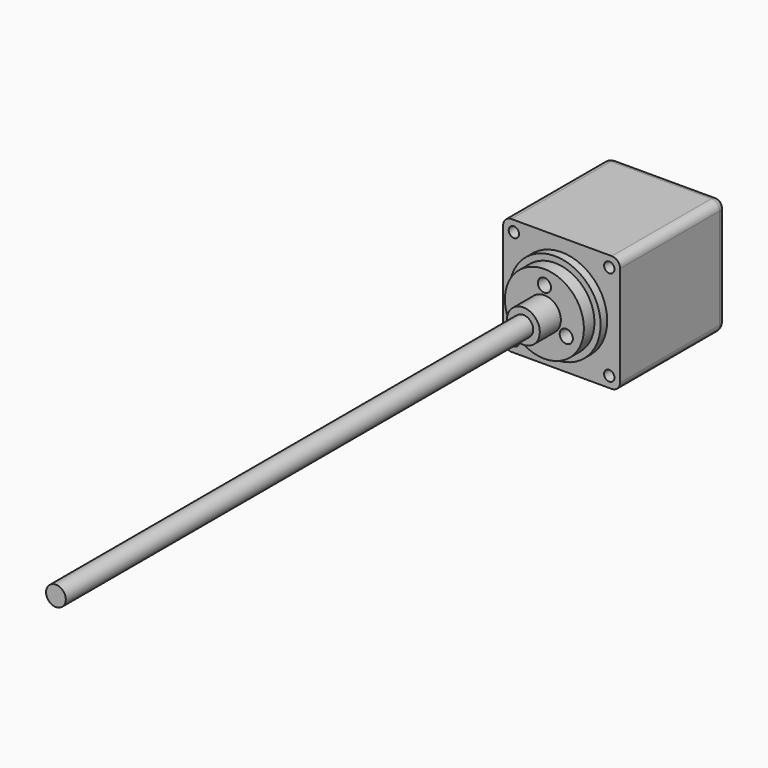
from build123d import *

# Parameters (mm, degrees)
F0_W     = 28.2
F0_H     = 28.2
F0_R     = 1.25
F0_R_2   = 11
F0_R_3   = 2.38
F1_DEPTH = 32
F2_DEPTH = 152.4
F3_DEPTH = 2
F4_DEPTH = 3
F5_R     = 2
F6_R     = 3.97
F6_R_2   = 2.38
F7_DEPTH = 9.53
F6_R_3   = 9.525
F6_R_4   = 1.59
F8_DEPTH = 3.18


with BuildPart() as f1:
    # F0 (on Front) → F1 (new body)
    with BuildSketch(Plane.XZ):
        Rectangle(F0_W, F0_H)
        with Locations((-11.5, -11.5)):
            Circle(F0_R, mode=Mode.SUBTRACT)
        with Locations((11.5, -11.5)):
            Circle(F0_R, mode=Mode.SUBTRACT)
        with Locations((-11.5, 11.5)):
            Circle(F0_R, mode=Mode.SUBTRACT)
        Circle(F0_R_2, mode=Mode.SUBTRACT)
        with Locations((11.5, 11.5)):
            Circle(F0_R, mode=Mode.SUBTRACT)
        with Locations((11.5, 11.5)):
            Circle(F0_R)
        with Locations((11.5, -11.5)):
            Circle(F0_R)
        with Locations((-11.5, -11.5)):
            Circle(F0_R)
        with Locations((-11.5, 11.5)):
            Circle(F0_R)
        Circle(F0_R_2)
        Circle(F0_R_3, mode=Mode.SUBTRACT)
        Circle(F0_R_3)
    extrude(amount=-F1_DEPTH)

    # F0 (on Front) → F3 (join)
    with BuildSketch(Plane.XZ):
        Circle(F0_R_2)
        Circle(F0_R_3, mode=Mode.SUBTRACT)
    extrude(amount=F3_DEPTH)

    # F0 (on Front) → F4 (cut)
    with BuildSketch(Plane.XZ):
        with Locations((-11.5, 11.5)):
            Circle(F0_R)
        with Locations((11.5, 11.5)):
            Circle(F0_R)
        with Locations((11.5, -11.5)):
            Circle(F0_R)
        with Locations((-11.5, -11.5)):
            Circle(F0_R)
    extrude(amount=-F4_DEPTH, mode=Mode.SUBTRACT)

    # F5
    f5_edges = [f1.edges().sort_by_distance(p)[0] for p in [
        (-14.1, 16, 14.1),
        (0, 32, 14.1),
        (14.1, 16, 14.1),
        (14.1, 32, 0),
        (14.1, 16, -14.1),
        (0, 32, -14.1),
        (-14.1, 16, -14.1),
        (-14.1, 32, 0),
    ]]
    fillet(f5_edges, radius=F5_R)


with BuildPart() as f2:
    # F0 (on Front) → F2 (new body)
    with BuildSketch(Plane.XZ):
        Circle(F0_R_3)
    extrude(amount=F2_DEPTH)


with BuildPart() as f7:
    # F6 (on face) → F7 (new body)
    with BuildSketch(Plane.XZ.offset(2)):
        Circle(F6_R)
        Circle(F6_R_2, mode=Mode.SUBTRACT)
    extrude(amount=F7_DEPTH)

    # F6 (on face) → F8 (join)
    with BuildSketch(Plane.XZ.offset(2)):
        Circle(F6_R_3)
        with Locations((-5.274094709, -3.045)):
            Circle(F6_R_4, mode=Mode.SUBTRACT)
        with Locations((5.274094709, -3.045)):
            Circle(F6_R_4, mode=Mode.SUBTRACT)
        Circle(F6_R, mode=Mode.SUBTRACT)
        with Locations((0, 6.09)):
            Circle(F6_R_4, mode=Mode.SUBTRACT)
    extrude(amount=F8_DEPTH)


solid = Compound([f1.part, f2.part, f7.part])
